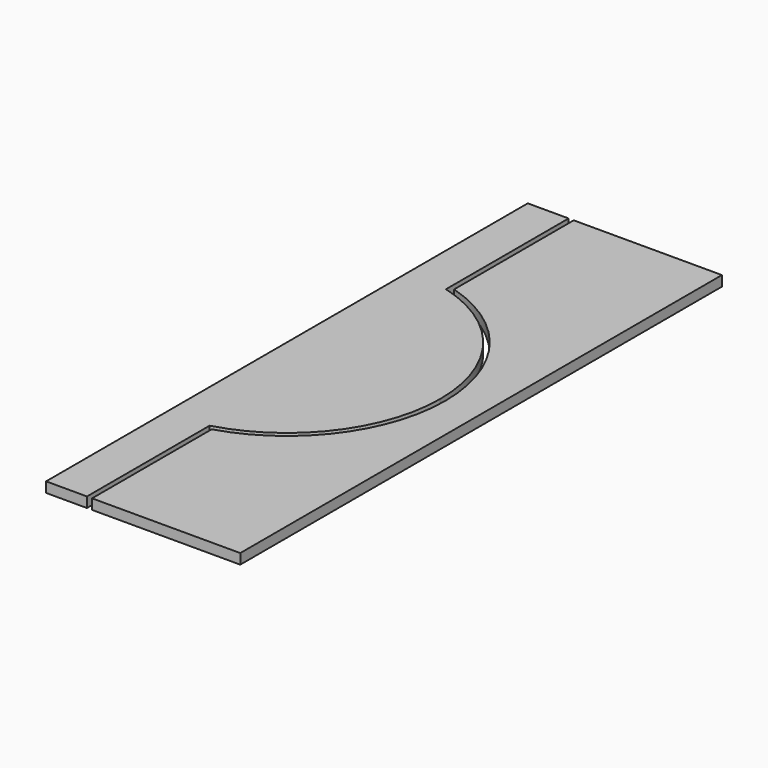
from build123d import *

# Parameters (mm, degrees)
F1_DEPTH = 10


with BuildPart() as f1:
    # F0 (on Top) → F1 (new body)
    with BuildSketch(Plane.XY):
        with BuildLine():
            Line((0, 294.568323), (0, 0))
            Line((0, 0), (40, 0))
            Line((40, 0), (150, 0))
            ThreePointArc((150, 0), (119.373364, 90.829511), (40, 144.568323))
            Line((40, 144.568323), (40, 294.568323))
            Line((40, 294.568323), (0, 294.568323))
        make_face()
        with BuildLine():
            ThreePointArc((45, 148.32397), (124.498996, 92.330927), (155, 0))
            ThreePointArc((155, 0), (124.498996, -92.330927), (45, -148.32397))
            Line((45, -148.32397), (45, -294.568323))
            Line((45, -294.568323), (190, -294.568323))
            Line((190, -294.568323), (190, 294.568323))
            Line((190, 294.568323), (45, 294.568323))
            Line((45, 294.568323), (45, 148.32397))
        make_face()
        with BuildLine():
            Line((40, 0), (0, 0))
            Line((0, 0), (0, -294.568323))
            Line((0, -294.568323), (40, -294.568323))
            Line((40, -294.568323), (40, -144.568323))
            ThreePointArc((40, -144.568323), (119.373364, -90.829511), (150, 0))
            Line((150, 0), (40, 0))
        make_face()
    extrude(amount=F1_DEPTH)


solid = f1.part
